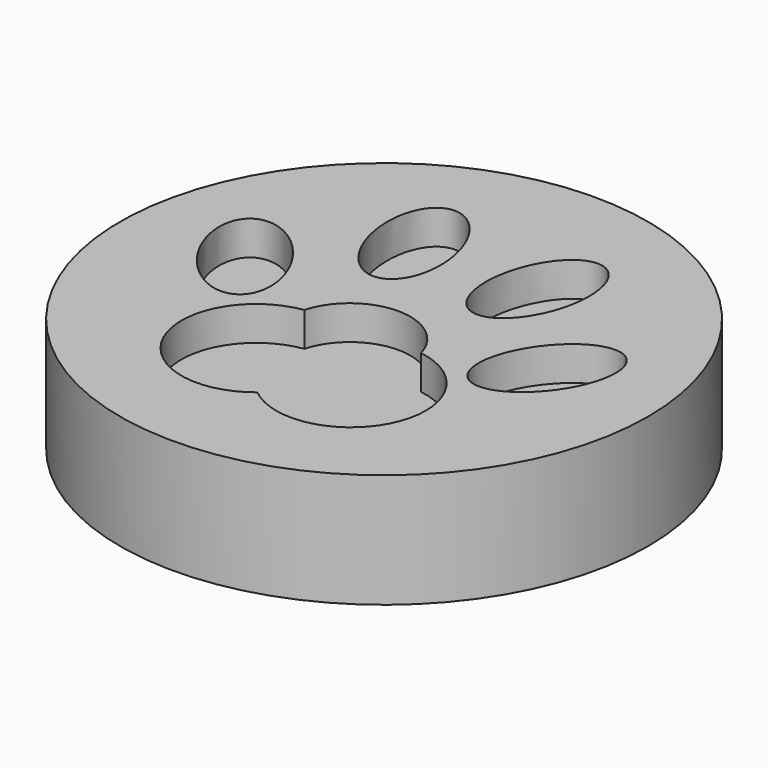
from build123d import *

# Parameters (mm, degrees)
F0_R     = 58.751581
F1_DEPTH = 17.78
F2_R     = 58.751581
F3_DEPTH = 7.62


with BuildPart() as f1:
    # F0 (on Top) → F1 (new body)
    with BuildSketch(Plane.XY):
        Circle(F0_R)
    extrude(amount=F1_DEPTH)

    # F2 (on face) → F3 (join)
    with BuildSketch(Plane.XY.offset(17.78)):
        Circle(F2_R)
        with BuildLine():
            ThreePointArc((27.182241, -22.408611), (17.661868, -37.443432), (0, -35.265872))
            ThreePointArc((0, -35.265872), (-25.754965, -29.149488), (-12.993836, -5.957205))
            ThreePointArc((-12.993836, -5.957205), (0, 3.930402), (12.993836, -5.957205))
            ThreePointArc((12.993836, -5.957205), (23.145181, -11.546296), (27.182241, -22.408611))
        make_face(mode=Mode.SUBTRACT)
        with BuildLine():
            add(Edge.make_bspline(
                [(-25.755015, -8.629446), (-13.754901, -0.719082), (-31.563528, 13.239472), (-49.372154, 27.198025), (-43.563641, 5.329107), (-37.755128, -16.539811), (-25.755015, -8.629446)],
                knots=[0, 0, 0, 2.094395, 2.094395, 4.18879, 4.18879, 6.283185, 6.283185, 6.283185], degree=2, weights=[1, 0.5, 1, 0.5, 1, 0.5, 1]))
        make_face(mode=Mode.SUBTRACT)
        with BuildLine():
            add(Edge.make_bspline(
                [(-10.436088, 11.595653), (3.545834, 14.924684), (-8.414694, 34.132343), (-20.375223, 53.340001), (-22.396616, 30.803312), (-24.41801, 8.266623), (-10.436088, 11.595653)],
                knots=[0, 0, 0, 2.094395, 2.094395, 4.18879, 4.18879, 6.283185, 6.283185, 6.283185], degree=2, weights=[1, 0.5, 1, 0.5, 1, 0.5, 1]))
        make_face(mode=Mode.SUBTRACT)
        with BuildLine():
            add(Edge.make_bspline(
                [(10.436088, 11.595653), (24.41801, 8.266623), (22.396616, 30.803312), (20.375223, 53.340001), (8.414694, 34.132343), (-3.545834, 14.924684), (10.436088, 11.595653)],
                knots=[0, 0, 0, 2.094395, 2.094395, 4.18879, 4.18879, 6.283185, 6.283185, 6.283185], degree=2, weights=[1, 0.5, 1, 0.5, 1, 0.5, 1]))
        make_face(mode=Mode.SUBTRACT)
        with BuildLine():
            add(Edge.make_bspline(
                [(25.755015, -8.629446), (37.755128, -16.539811), (43.563641, 5.329107), (49.372154, 27.198025), (31.563528, 13.239472), (13.754901, -0.719082), (25.755015, -8.629446)],
                knots=[0, 0, 0, 2.094395, 2.094395, 4.18879, 4.18879, 6.283185, 6.283185, 6.283185], degree=2, weights=[1, 0.5, 1, 0.5, 1, 0.5, 1]))
        make_face(mode=Mode.SUBTRACT)
    extrude(amount=F3_DEPTH)


solid = f1.part
